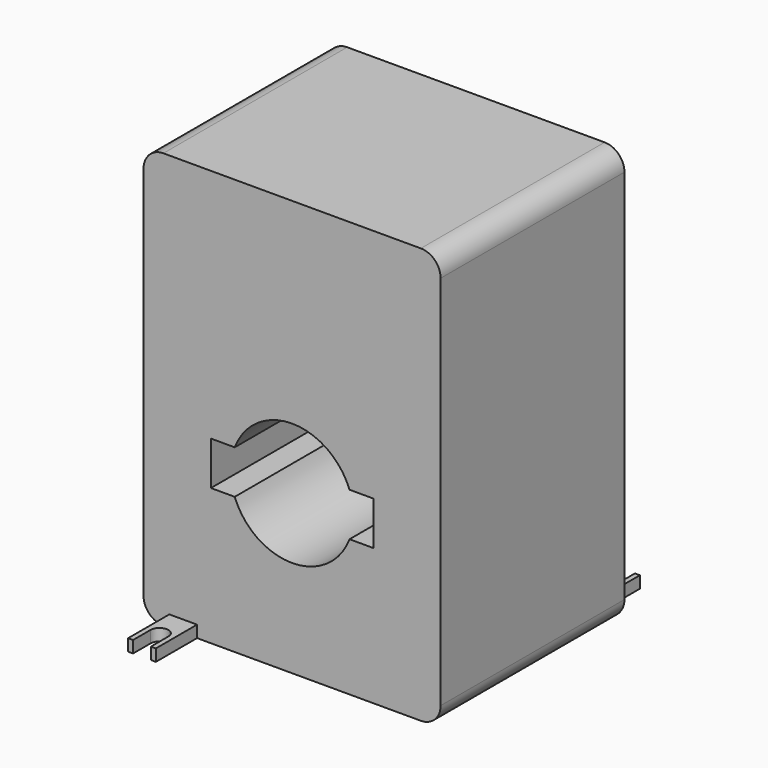
from build123d import *

# Parameters (mm, degrees)
F0_W     = 75
F0_H     = 105
F1_DEPTH = 29
F2_W     = 7
F2_H     = 13
F3_DEPTH = 3
F6_DEPTH = 25
F7_R     = 5


with BuildPart() as f1:
    # F0 (on Front) → F1 (new body, symmetric)
    with BuildSketch(Plane.XZ):
        Rectangle(F0_W, F0_H)
        with BuildLine():
            Line((20.5, -7), (20.5, -18))
            Line((20.5, -18), (14.491377, -18))
            ThreePointArc((14.491377, -18), (0, -28), (-14.491377, -18))
            Line((-14.491377, -18), (-20.5, -18))
            Line((-20.5, -18), (-20.5, -7))
            Line((-20.5, -7), (-14.491377, -7))
            ThreePointArc((-14.491377, -7), (0, 3), (14.491377, -7))
            Line((14.491377, -7), (20.5, -7))
        make_face(mode=Mode.SUBTRACT)
    extrude(amount=F1_DEPTH, both=True)

    # F2 (on face) → F3 (join)
    with BuildSketch(Plane(origin=(0, 0, -52.5), x_dir=(1, 0, 0), z_dir=(0, 0, -1))):
        with Locations((-27.5, 35.5)):
            Rectangle(F2_W, F2_H)
        with Locations((27.5, -35.5)):
            Rectangle(F2_W, F2_H)
    extrude(amount=-F3_DEPTH)

    # F5 (on face) + F4 (on face) → F6 (cut)
    with BuildSketch(Plane.XY.offset(-49.5)):
        with BuildLine():
            Line((25.25, 42), (25.25, 36.5))
            ThreePointArc((25.25, 36.5), (27.5, 34.25), (29.75, 36.5))
            Line((29.75, 36.5), (29.75, 42))
            Line((29.75, 42), (25.25, 42))
        make_face()
    with BuildSketch(Plane.XY.offset(-49.5)):
        with BuildLine():
            Line((-25.25, -42), (-25.25, -36.5))
            ThreePointArc((-25.25, -36.5), (-27.5, -34.25), (-29.75, -36.5))
            Line((-29.75, -36.5), (-29.75, -42))
            Line((-29.75, -42), (-25.25, -42))
        make_face()
    extrude(amount=-F6_DEPTH, mode=Mode.SUBTRACT)

    # F7
    f7_edges = [f1.edges().sort_by_distance(p)[0] for p in [
        (-37.5, 0, -52.5),
        (37.5, 0, -52.5),
        (37.5, 0, 52.5),
        (-37.5, 0, 52.5),
    ]]
    fillet(f7_edges, radius=F7_R)


solid = f1.part
